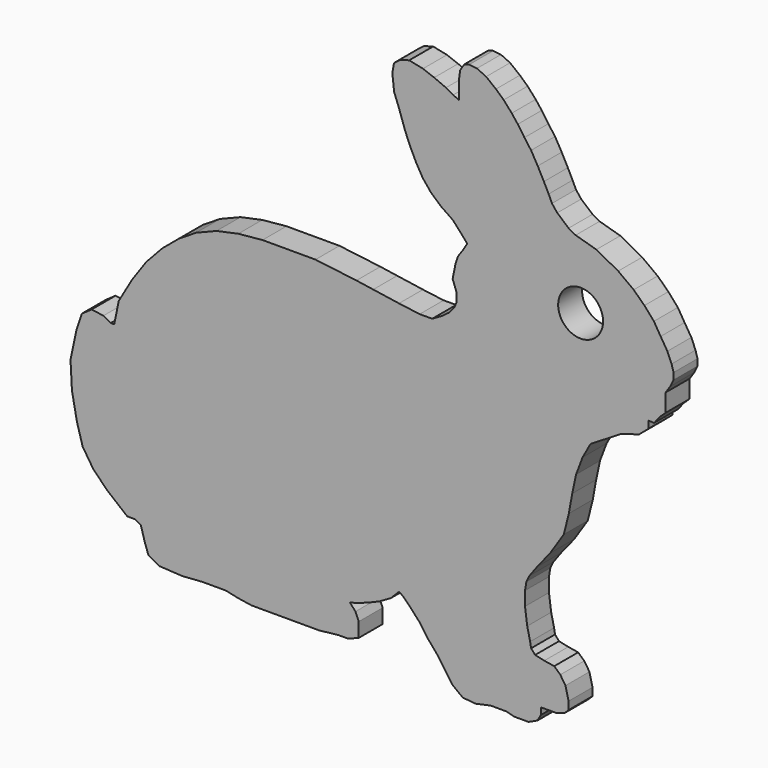
from build123d import *

# Parameters (mm, degrees)
F0_R     = 2.25
F1_DEPTH = 3


with BuildPart() as f1:
    # F0 (on Front) → F1 (new body)
    with BuildSketch(Plane.XZ):
        Polygon((59.17797, 31.194587), (59.17797, 31.900588), (59.738858, 31.881615), (60.307068, 32.607616), (60.893968, 33.156025), (60.893968, 33.944442), (60.893968, 34.949179), (61.360855, 35.642351), (61.679476, 36.30662), (61.679476, 36.964568), (61.482426, 37.650985), (61.062581, 38.640238), (60.388171, 39.726486), (59.709248, 40.840028), (58.760794, 41.924554), (57.686546, 42.960874), (56.13193, 44.108019), (53.9429, 45.290024), (51.871779, 45.888075), (51.164123, 46.276766), (50.027608, 47.254788), (49.500446, 47.917502), (49.162385, 48.640302), (48.689091, 49.58215), (48.072106, 50.756746), (47.402845, 51.920425), (46.735066, 52.826829), (46.07114, 53.790702), (45.464824, 54.565684), (44.656431, 55.471539), (43.882285, 56.180216), (42.898628, 56.955005), (41.981423, 57.381575), (41.207883, 57.468069), (40.705001, 57.323706), (40.293103, 56.680384), (40.199735, 55.948148), (40.199735, 53.980475), (39.600259, 54.273897), (38.873113, 54.669222), (37.691645, 55.178945), (36.573572, 55.601232), (35.189915, 55.889827), (34.28163, 55.629085), (33.673137, 55.168423), (33.496248, 54.232587), (33.683778, 52.592809), (34.165904, 51.337972), (34.766386, 49.587351), (35.256976, 48.387687), (35.906764, 47.050612), (36.533276, 45.966415), (37.37989, 44.924222), (38.390851, 44.028023), (39.571477, 43.215491), (40.304705, 42.407678), (41.001196, 41.611003), (40.603713, 40.936851), (40.078084, 40.196856), (39.829461, 39.436208), (39.542939, 38.021807), (39.943556, 36.928817), (39.943556, 36.094203), (39.686826, 35.513923), (39.211509, 34.949179), (38.484942, 34.410313), (37.494795, 33.839713), (36.238837, 33.839713), (34.168248, 34.110547), (31.584672, 34.494312), (29.90189, 34.744845), (25.798248, 35.253315), (22.933811, 35.253315), (20.492591, 35.253315), (18.065328, 35.020179), (15.885449, 34.556809), (13.849761, 33.73976), (12.129347, 32.664482), (10.457839, 31.268078), (8.842911, 29.534917), (7.437296, 27.533482), (6.092134, 25.215313), (5.626353, 22.985314), (5.281105, 22.985314), (4.552305, 23.394156), (3.3653, 23.558287), (2.386902, 22.873478), (1.858065, 21.299662), (1.250321, 18.427405), (1.39535, 15.751299), (1.9034, 13.137148), (2.472708, 11.153989), (3.530675, 9.537014), (4.893567, 8.13821), (6.934674, 6.468246), (7.735685, 6.468246), (8.300671, 6.139061), (8.704288, 4.733078), (9.059932, 3.727228), (10.139112, 3.128539), (12.447312, 2.994476), (14.452639, 3.13662), (16.818212, 3.13662), (18.006043, 2.876388), (19.390354, 2.661495), (21.883129, 2.661495), (23.743564, 2.661495), (26.185988, 2.661495), (28.06579, 2.876388), (29.066299, 2.876388), (30.133199, 3.287267), (30.133199, 3.511565), (30.133199, 4.072266), (30.133199, 4.733231), (29.804504, 5.510292), (29.258075, 6.118042), (30.175305, 6.385948), (31.107011, 6.724561), (32.186629, 7.175799), (33.344732, 7.840062), (34.17739, 8.683063), (34.59618, 8.388327), (35.282453, 7.692138), (36.302242, 6.572426), (37.074772, 5.464323), (38.065363, 4.298558), (38.765096, 3.287267), (39.539397, 2.19271), (40.561764, 1.410144), (41.847485, 1.295176), (43.353376, 1.616231), (44.911167, 1.616231), (45.73869, 1.410144), (47.144735, 1.410144), (48.039055, 1.821825), (48.391114, 2.430058), (48.391114, 3.106444), (49.971162, 3.106444), (50.76906, 3.37499), (51.164123, 3.768711), (51.164123, 4.550725), (50.851106, 5.822739), (50.331727, 6.610573), (49.723235, 7.166963), (48.727288, 7.327425), (47.805995, 7.531474), (47.405892, 7.991314), (47.309159, 8.544259), (47.017634, 9.822114), (46.794978, 11.487763), (46.794978, 12.884877), (46.934963, 13.710026), (47.239665, 14.333159), (48.015684, 15.389006), (49.316895, 17.012446), (50.68293, 19.101975), (51.188018, 21.113079), (51.526973, 22.985314), (51.914252, 24.793496), (52.566426, 26.517666), (53.361181, 27.959348), (56.45878, 29.854865), (58.211347, 30.368955), align=None)
        with Locations((52.367389, 39.174978)):
            Circle(F0_R, mode=Mode.SUBTRACT)
    extrude(amount=F1_DEPTH)


solid = f1.part
